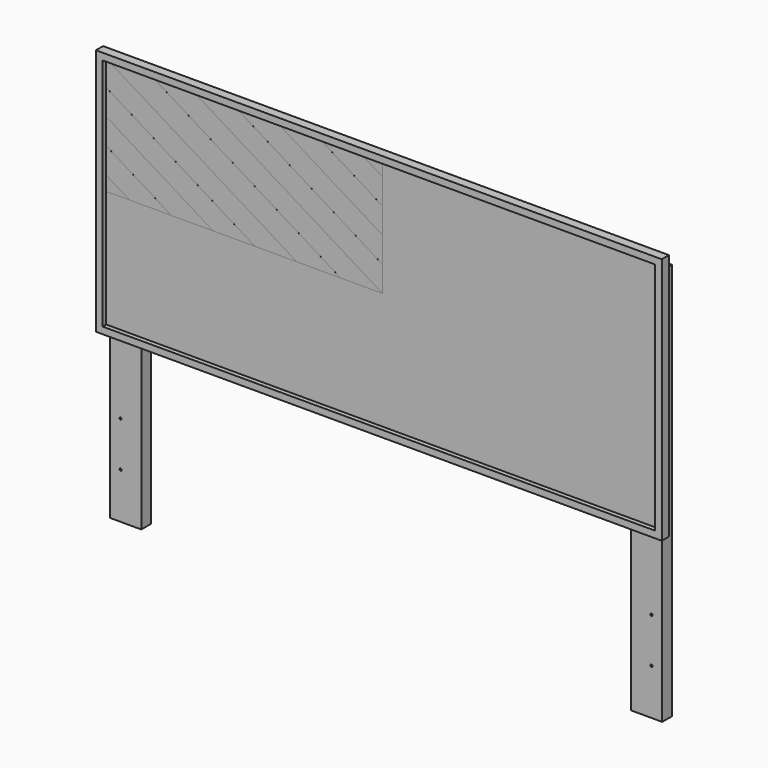
from build123d import *

# Parameters (mm, degrees)
F0_W      = 1562.1
F0_H      = 662.792688
F1_DEPTH  = 12.7
F2_W      = 1600.2
F2_H      = 700.892688
F2_W_2    = 1562.1
F2_H_2    = 662.792688
F3_DEPTH  = 25.4
F5_DEPTH  = 0.0254
F7_DEPTH  = 0.0508
F8_W      = 88.9
F8_H      = 1123.95
F9_DEPTH  = 34.925
F10_R     = 3.175
F11_DEPTH = 60.326
F12_R     = 12.7
F13_DEPTH = 12.7


with BuildPart() as f1:
    # F0 (on Front) → F1 (new body)
    with BuildSketch(Plane.XZ):
        Rectangle(F0_W, F0_H)
    extrude(amount=F1_DEPTH)

    # F2 (on Front) → F3 (join)
    with BuildSketch(Plane.XZ):
        Rectangle(F2_W, F2_H)
        Rectangle(F2_W_2, F2_H_2, mode=Mode.SUBTRACT)
    extrude(amount=F3_DEPTH)

    # F4 (on face) → F5 (join)
    with BuildSketch(Plane.XZ.offset(12.7)):
        Polygon((-118.156804, 0), (0, 0), (-538.677069, 331.396344), (-656.833873, 331.396344), align=None)
        Polygon((-242.372931, 0), (-781.05, 331.396344), (-781.05, 258.705793), (-360.529735, 0), align=None)
        Polygon((-596.843343, 0), (-478.686539, 0), (-781.05, 186.015242), (-781.05, 113.324691), align=None)
        Polygon((-781.05, 0), (-715.000147, 0), (-781.05, 40.63414), align=None)
        Polygon((-420.520265, 331.396344), (0, 72.690551), (0, 145.381102), (-302.363461, 331.396344), align=None)
        Polygon((-184.206657, 331.396344), (0, 218.071652), (0, 290.762203), (-66.049853, 331.396344), align=None)
    extrude(amount=F5_DEPTH)

    # F6 (on face) → F7 (join)
    with BuildSketch(Plane.XZ.offset(12.7)):
        Polygon((-596.843343, 0), (-781.05, 113.324691), (-781.05, 40.63414), (-715.000147, 0), align=None)
        Polygon((-781.05, 258.705793), (-781.05, 186.015242), (-478.686539, 0), (-360.529735, 0), align=None)
        Polygon((-656.833873, 331.396344), (-781.05, 331.396344), (-242.372931, 0), (-118.156804, 0), align=None)
        Polygon((-420.520265, 331.396344), (-538.677069, 331.396344), (0, 0), (0, 72.690551), align=None)
        Polygon((-184.206657, 331.396344), (-302.363461, 331.396344), (0, 145.381102), (0, 218.071652), align=None)
        Polygon((0, 331.396344), (-66.049853, 331.396344), (0, 290.762203), align=None)
    extrude(amount=F7_DEPTH)

    # F8 (on Front) → F9 (join)
    with BuildSketch(Plane.XZ):
        with Locations((736.6, -255.978656)):
            Rectangle(F8_W, F8_H)
        with Locations((-736.6, -255.978656)):
            Rectangle(F8_W, F8_H)
    extrude(amount=-F9_DEPTH)

    # F10 (on face) → F11 (cut, through all)
    with BuildSketch(Plane(origin=(0, 34.925, 0), x_dir=(-1, 0, 0), z_dir=(0, 1, 0))):
        with Locations((-750.8875, -687.778656)):
            Circle(F10_R)
        with Locations((-750.8875, -560.778656)):
            Circle(F10_R)
        with Locations((750.8875, -560.778656)):
            Circle(F10_R)
        with Locations((750.8875, -687.778656)):
            Circle(F10_R)
    extrude(amount=-F11_DEPTH, mode=Mode.SUBTRACT)

    # F12 (on face) → F13 (cut)
    with BuildSketch(Plane(origin=(0, 34.925, 0), x_dir=(-1, 0, 0), z_dir=(0, 1, 0))):
        with Locations((-750.8875, -687.778656)):
            Circle(F12_R)
        with Locations((-750.8875, -560.778656)):
            Circle(F12_R)
        with Locations((750.8875, -687.778656)):
            Circle(F12_R)
        with Locations((750.8875, -560.778656)):
            Circle(F12_R)
    extrude(amount=-F13_DEPTH, mode=Mode.SUBTRACT)


solid = f1.part
